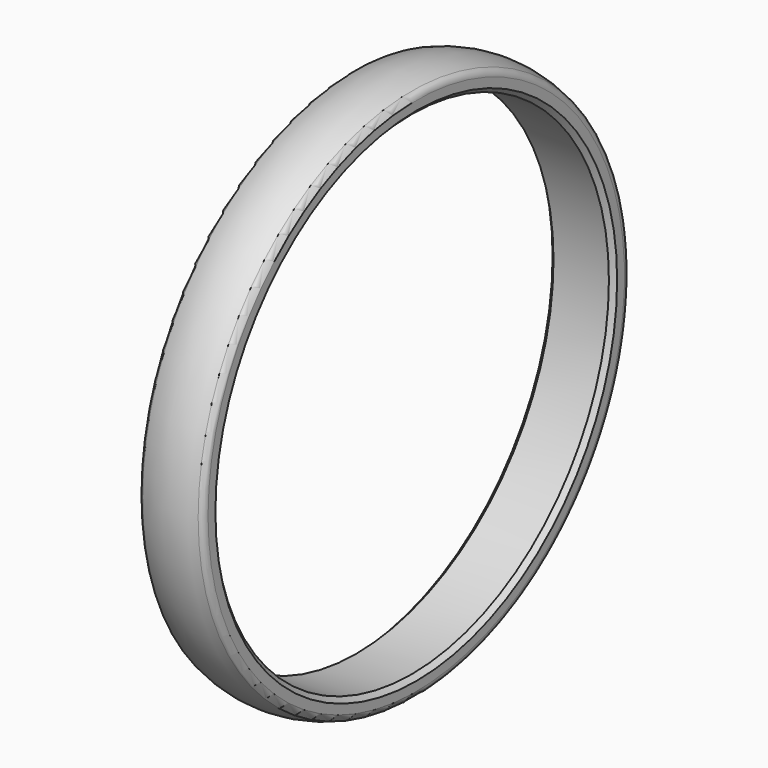
from build123d import *


with BuildPart() as part:
    # Sketch → Revolution (revolve)
    with BuildSketch(Plane.XY):
        with BuildLine():
            Line((17.677678, -954.92), (232.322322, -954.92))
            Line((232.322322, -954.92), (250, -972.597661))
            Line((250, -1008.225592), (250, -972.597661))
            ThreePointArc((232.40613, -1034.220062), (245.188053, -1023.919992), (250, -1008.225592))
            ThreePointArc((17.59387, -1034.220062), (125, -1054.92), (232.40613, -1034.220062))
            ThreePointArc((0, -1008.225592), (4.811947, -1023.919992), (17.59387, -1034.220062))
            Line((0, -972.597661), (0, -1008.225592))
            Line((17.677678, -954.92), (0, -972.597661))
        make_face()
    revolve(axis=Axis((0, 0, 0), (1, 0, 0)))


solid = part.part
